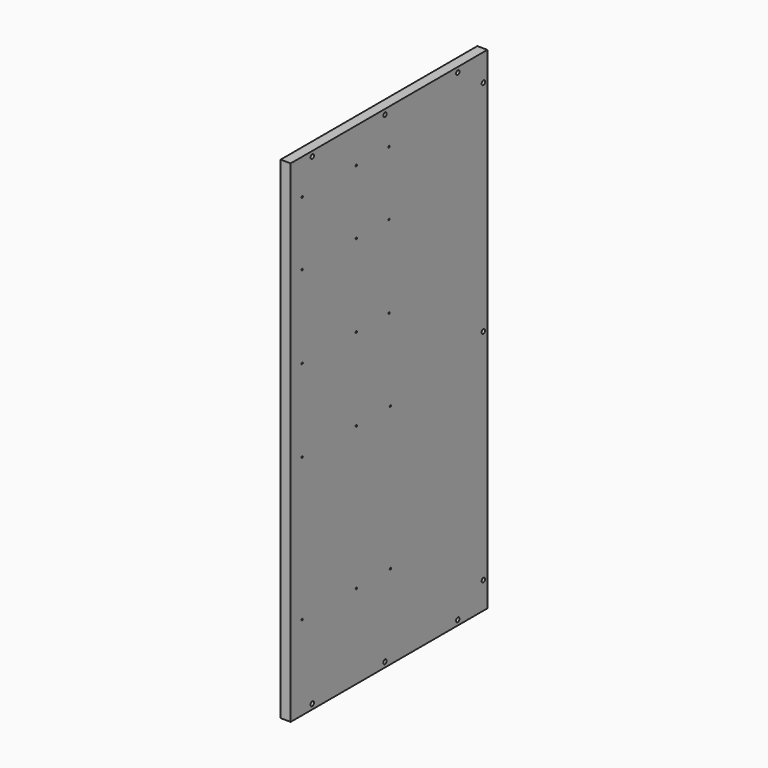
from build123d import *

# Parameters (mm, degrees)
F0_W     = 463.55
F0_H     = 927.1
F1_DEPTH = 19.05
F3_D     = 8.001
F3_DEPTH = 14.224
F3_TIP   = 2.4037429064
F5_D     = 3.175
F5_DEPTH = 14.224
F5_TIP   = 0.9538662327


with BuildPart() as f1:
    # F0 (on Right) → F1 (new body)
    with BuildSketch(Plane.YZ):
        Rectangle(F0_W, F0_H)
    extrude(amount=F1_DEPTH)

    # F3
    with Locations(Plane.YZ.offset(19.05)):
        with Locations((-180.975, 454.025), (-9.525, 454.025), (161.925, 454.022705555), (222.25, 412.75), (222.25, 0), (222.25, -412.75), (161.925, -454.025), (-9.525, -454.025), (-180.975, -454.025)):
            Hole(F3_D / 2, depth=F3_DEPTH)
            with Locations((0, 0, -(F3_DEPTH + F3_TIP / 2))):  # 118° drill point
                Cone(0, F3_D / 2, F3_TIP, mode=Mode.SUBTRACT)

    # F5
    with Locations(Plane.YZ.offset(19.05)):
        with Locations((-204.851, 396.875), (-77.089, 396.875), (0, 396.875), (-204.851, 276.225), (-77.089, 276.225), (0, 276.225), (-204.851, 120.65), (-77.089, 120.65), (0, 120.65), (-204.851, -34.925), (-77.089, -34.925), (3.175, -34.925), (-204.851, -304.8), (-77.089, -304.8), (3.175, -304.8)):
            Hole(F5_D / 2, depth=F5_DEPTH)
            with Locations((0, 0, -(F5_DEPTH + F5_TIP / 2))):  # 118° drill point
                Cone(0, F5_D / 2, F5_TIP, mode=Mode.SUBTRACT)


solid = f1.part
